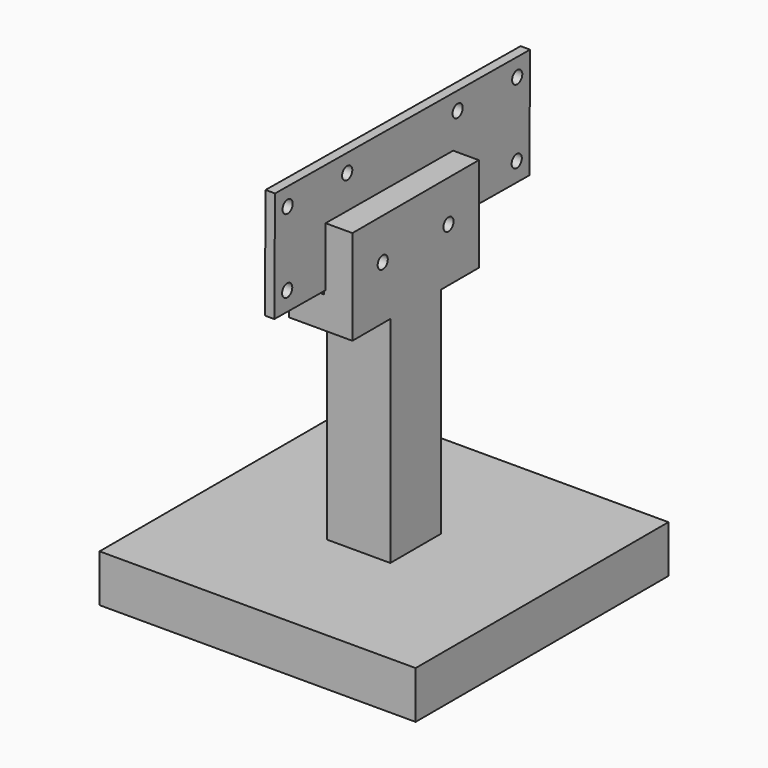
from build123d import *

# Parameters (mm, degrees)
CYLINDER005_R           = 2
CYLINDER005_DEPTH       = 10
CYLINDER006_R           = 2
CYLINDER006_DEPTH       = 10
CYLINDER007_R           = 2
CYLINDER007_DEPTH       = 10
CYLINDER004_R           = 2
CYLINDER004_DEPTH       = 10
CYLINDER002_R           = 2
CYLINDER002_DEPTH       = 10
CYLINDER001_R           = 2
CYLINDER001_DEPTH       = 10
CYLINDER003_R           = 2
CYLINDER003_DEPTH       = 10
CYLINDER_R              = 2
CYLINDER_DEPTH          = 10
BOX004_W                = 100
BOX004_H                = 35
BOX004_DEPTH            = 3
CUT008_ROLL_ANGLE       = 89.795603
CUT008_PITCH_ANGLE      = -0.20586
CUT008_PLACEMENT_ANGLE  = -90.408796
BOX_W                   = 100
BOX_H                   = 100
BOX_DEPTH               = 15
CYLINDER010_R           = 2
CYLINDER010_DEPTH       = 25
CYLINDER010_PITCH_ANGLE = -90
CYLINDER009_R           = 2
CYLINDER009_DEPTH       = 25
CYLINDER009_PITCH_ANGLE = -90
BOX002_W                = 2
BOX002_H                = 50
BOX002_DEPTH            = 30
BOX001_W                = 20
BOX001_H                = 20
BOX001_DEPTH            = 100
BOX005_W                = 20
BOX005_H                = 50
BOX005_DEPTH            = 30


with BuildPart() as cylinder005:
    # Cylinder005 → Cylinder005 (new body)
    with BuildSketch(Plane(origin=(90, 0, 0), x_dir=(1, 0, 0), z_dir=(0, 0, 1))):
        Circle(CYLINDER005_R)
    extrude(amount=CYLINDER005_DEPTH)


with BuildPart() as cylinder006:
    # Cylinder006 → Cylinder006 (new body)
    with BuildSketch(Plane(origin=(66.65, 23.35, 0), x_dir=(1, 0, 0), z_dir=(0, 0, 1))):
        Circle(CYLINDER006_R)
    extrude(amount=CYLINDER006_DEPTH)


with BuildPart() as cylinder007:
    # Cylinder007 → Cylinder007 (new body)
    with BuildSketch(Plane(origin=(66.65, 0, 0), x_dir=(1, 0, 0), z_dir=(0, 0, 1))):
        Circle(CYLINDER007_R)
    extrude(amount=CYLINDER007_DEPTH)


with BuildPart() as cylinder004:
    # Cylinder004 → Cylinder004 (new body)
    with BuildSketch(Plane(origin=(90, 23.35, 0), x_dir=(1, 0, 0), z_dir=(0, 0, 1))):
        Circle(CYLINDER004_R)
    extrude(amount=CYLINDER004_DEPTH)


with BuildPart() as cylinder002:
    # Cylinder002 → Cylinder002 (new body)
    with BuildSketch(Plane(origin=(0, 23.35, 0), x_dir=(1, 0, 0), z_dir=(0, 0, 1))):
        Circle(CYLINDER002_R)
    extrude(amount=CYLINDER002_DEPTH)


with BuildPart() as cylinder001:
    # Cylinder001 → Cylinder001 (new body)
    with BuildSketch(Plane(origin=(23.35, 0, 0), x_dir=(1, 0, 0), z_dir=(0, 0, 1))):
        Circle(CYLINDER001_R)
    extrude(amount=CYLINDER001_DEPTH)


with BuildPart() as cylinder003:
    # Cylinder003 → Cylinder003 (new body)
    with BuildSketch(Plane(origin=(23.35, 23.35, 0), x_dir=(1, 0, 0), z_dir=(0, 0, 1))):
        Circle(CYLINDER003_R)
    extrude(amount=CYLINDER003_DEPTH)


with BuildPart() as cylinder:
    # Cylinder → Cylinder (new body)
    with BuildSketch(Plane.XY):
        Circle(CYLINDER_R)
    extrude(amount=CYLINDER_DEPTH)


with BuildPart() as obj1:
    # Box004 → Box004 (new body)
    with BuildSketch(Plane(origin=(-5, -6, 0), x_dir=(1, 0, 0), z_dir=(0, 0, 1))):
        with Locations((50, 17.5)):
            Rectangle(BOX004_W, BOX004_H)
    extrude(amount=BOX004_DEPTH)

    # Cut001: cut Cylinder
    add(cylinder.part, mode=Mode.SUBTRACT)

    # Cut002: cut Cylinder003
    add(cylinder003.part, mode=Mode.SUBTRACT)

    # Cut003: cut Cylinder001
    add(cylinder001.part, mode=Mode.SUBTRACT)

    # Cut004: cut Cylinder002
    add(cylinder002.part, mode=Mode.SUBTRACT)

    # Cut005: cut Cylinder004
    add(cylinder004.part, mode=Mode.SUBTRACT)

    # Cut006: cut Cylinder007
    add(cylinder007.part, mode=Mode.SUBTRACT)

    # Cut007: cut Cylinder006
    add(cylinder006.part, mode=Mode.SUBTRACT)

    # Cut008: cut Cylinder005
    add(cylinder005.part, mode=Mode.SUBTRACT)


with BuildPart() as obj1_1:
    # Cut008 roll: moved
    add(obj1.part.rotate(Axis((0, 0, 0), (1, 0, 0)), CUT008_ROLL_ANGLE))


with BuildPart() as obj1_2:
    # Cut008 pitch: moved
    add(obj1_1.part.rotate(Axis((0, 0, 0), (0, 1, 0)), CUT008_PITCH_ANGLE))


with BuildPart() as obj1_3:
    # Cut008 placement: moved
    add(obj1_2.part.moved(Location((52, 100, 100))).rotate(Axis((52, 100, 100), (0, 0, 1)), CUT008_PLACEMENT_ANGLE))


with BuildPart() as base:
    # Box → Box (new body)
    with BuildSketch(Plane.XY):
        with Locations((50, 50)):
            Rectangle(BOX_W, BOX_H)
    extrude(amount=BOX_DEPTH)


with BuildPart() as obj2:
    # Cylinder010 → Cylinder010 (new body)
    with BuildSketch(Plane.XY):
        Circle(CYLINDER010_R)
    extrude(amount=CYLINDER010_DEPTH)


with BuildPart() as obj2_1:
    # Cylinder010 pitch: moved
    add(obj2.part.rotate(Axis((0, 0, 0), (0, 1, 0)), CYLINDER010_PITCH_ANGLE))


with BuildPart() as obj2_2:
    # Cylinder010 placement: moved
    add(obj2_1.part.moved(Location((62.5, 63, 100))))


with BuildPart() as obj3:
    # Cylinder009 → Cylinder009 (new body)
    with BuildSketch(Plane.XY):
        Circle(CYLINDER009_R)
    extrude(amount=CYLINDER009_DEPTH)


with BuildPart() as obj3_1:
    # Cylinder009 pitch: moved
    add(obj3.part.rotate(Axis((0, 0, 0), (0, 1, 0)), CYLINDER009_PITCH_ANGLE))


with BuildPart() as obj3_2:
    # Cylinder009 placement: moved
    add(obj3_1.part.moved(Location((62.5, 37, 100))))


with BuildPart() as obj4:
    # Box002 → Box002 (new body)
    with BuildSketch(Plane(origin=(49, 25, 93), x_dir=(1, 0, 0), z_dir=(0, 0, 1))):
        with Locations((1, 25)):
            Rectangle(BOX002_W, BOX002_H)
    extrude(amount=BOX002_DEPTH)


with BuildPart() as obj5:
    # Box001 → Box001 (new body)
    with BuildSketch(Plane(origin=(40, 40, 13), x_dir=(1, 0, 0), z_dir=(0, 0, 1))):
        with Locations((10, 10)):
            Rectangle(BOX001_W, BOX001_H)
    extrude(amount=BOX001_DEPTH)


with BuildPart() as suporte_v0:
    # Box005 → Box005 (new body)
    with BuildSketch(Plane(origin=(40, 25, 83), x_dir=(1, 0, 0), z_dir=(0, 0, 1))):
        with Locations((10, 25)):
            Rectangle(BOX005_W, BOX005_H)
    extrude(amount=BOX005_DEPTH)

    # Fusion: union obj5
    add(obj5.part)

    # Cut: cut obj4
    add(obj4.part, mode=Mode.SUBTRACT)

    # Cut009: cut obj3
    add(obj3_2.part, mode=Mode.SUBTRACT)

    # Cut010: cut obj2
    add(obj2_2.part, mode=Mode.SUBTRACT)

    # Fusion001: union Base
    add(base.part)


solid = Compound([obj1_3.part, suporte_v0.part])
